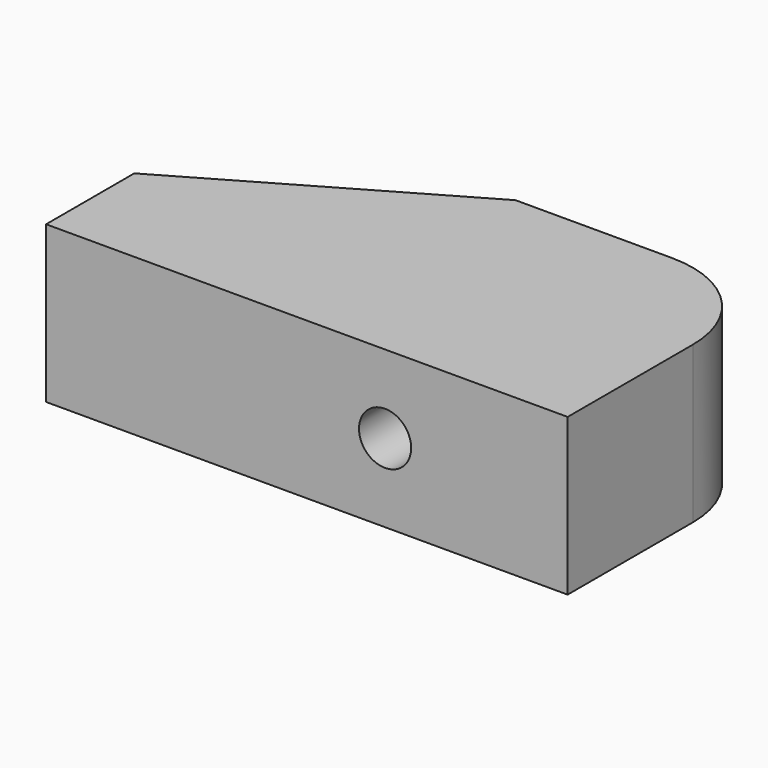
from build123d import *

# Parameters (mm, degrees)
PAD_DEPTH    = 30
SKETCH001_R  = 5
POCKET_DEPTH = 50.001


with BuildPart() as part:
    # Sketch → Pad (new body)
    with BuildSketch(Plane.XY):
        with BuildLine():
            Line((0, 0), (100, 0))
            Line((100, 0), (100, 30))
            ThreePointArc((100, 30), (94.142146, 44.142125), (80.000029, 50))
            Line((50, 50), (80.000029, 50))
            Line((50, 50), (0, 21.132487))
            Line((0, 21.132487), (0, 0))
        make_face()
    extrude(amount=PAD_DEPTH)

    # Sketch001 (on DatumPlane) → Pocket (cut, through all)
    with BuildSketch(Plane(origin=(65.000015, 50, 15), x_dir=(-1, 0, 0), z_dir=(0, 1, 0))):
        Circle(SKETCH001_R)
    extrude(amount=-POCKET_DEPTH, mode=Mode.SUBTRACT)


solid = part.part
